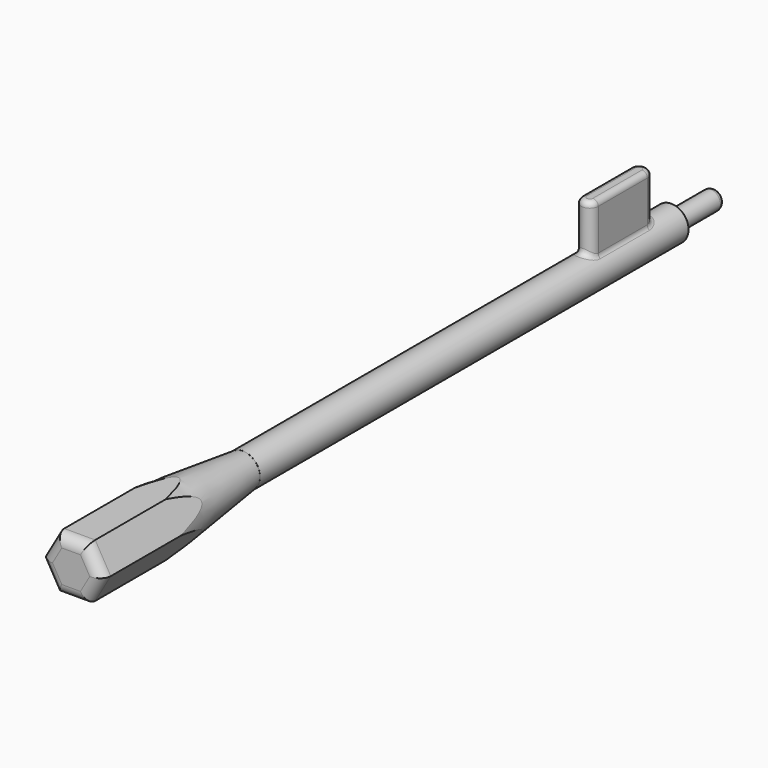
from build123d import *

# Parameters (mm, degrees)
PAD_DEPTH    = 40
SKETCH001_R  = 3.215442
PAD001_DEPTH = 100
SKETCH002_R  = 1.790301
PAD002_DEPTH = 10
FILLET_R     = 1
FILLET001_R  = 1
CHAMFER_SIZE = 0.2
FILLET002_R  = 2
PAD003_DEPTH = 10
FILLET003_R  = 1
FILLET004_R  = 1


with BuildPart() as part:
    # Sketch → Pad (new body)
    with BuildSketch(Plane.XZ):
        Polygon((2.886751, -5), (5.773503, 0), (2.886751, 5), (-2.886751, 5), (-5.773503, 0), (-2.886751, -5), align=None)
    extrude(amount=PAD_DEPTH)

    # Sketch001 (on Face7 of Pad) → Pad001 (join)
    with BuildSketch(Plane(origin=(0, 0, 0), x_dir=(1, 0, 0), z_dir=(0, 1, 0))):
        Circle(SKETCH001_R)
    extrude(amount=PAD001_DEPTH)

    # Sketch002 (on Face10 of Pad001) → Pad002 (join)
    with BuildSketch(Plane(origin=(0, 100, 0), x_dir=(1, 0, 0), z_dir=(0, 1, 0))):
        Circle(SKETCH002_R)
    extrude(amount=PAD002_DEPTH)

    # Fillet
    fillet_edges = [part.edges().sort_by_distance(p)[0] for p in [
        (-1.790301, 100, 0),
    ]]
    fillet(fillet_edges, radius=FILLET_R)

    # Fillet001
    fillet001_edges = [part.edges().sort_by_distance(p)[0] for p in [
        (-1.790301, 110, 0),
    ]]
    fillet(fillet001_edges, radius=FILLET001_R)

    # Chamfer
    chamfer_edges = [part.edges().sort_by_distance(p)[0] for p in [
        (-3.215442, 100, 0),
    ]]
    chamfer(chamfer_edges, length=CHAMFER_SIZE)

    # Sketch003 → Groove (revolve, cut)
    with BuildSketch(Plane.XY):
        Polygon((3.201163, 0), (6.726055, -29.548664), (6.726055, 0), align=None)
    revolve(axis=Axis((0, 0, 0), (0, 1, 0)), mode=Mode.SUBTRACT)

    # Fillet002
    fillet002_edges = [part.edges().sort_by_distance(p)[0] for p in [
        (4.330127, -40, -2.5),
        (4.330127, -40, 2.5),
        (0, -40, 5),
        (-4.330127, -40, 2.5),
        (-4.330127, -40, -2.5),
        (0, -40, -5),
    ]]
    fillet(fillet002_edges, radius=FILLET002_R)

    # Sketch004 → Pad003 (join)
    with BuildSketch(Plane.XY.offset(2)):
        with BuildLine():
            ThreePointArc((1.577738, 92.233203), (0, 93.810941), (-1.577738, 92.233203))
            Line((-1.577738, 92.233203), (-1.577738, 80.809975))
            ThreePointArc((-1.577738, 80.809975), (0, 79.232237), (1.577738, 80.809975))
            Line((1.577738, 80.809975), (1.577738, 92.233203))
        make_face()
    extrude(amount=PAD003_DEPTH)

    # Fillet003
    fillet003_edges = [part.edges().sort_by_distance(p)[0] for p in [
        (0, 93.810941, 12),
        (-1.577738, 86.521589, 12),
        (0, 79.232237, 12),
        (1.577738, 86.521589, 12),
    ]]
    fillet(fillet003_edges, radius=FILLET003_R)

    # Fillet004
    fillet004_edges = [part.edges().sort_by_distance(p)[0] for p in [
        (-1.577738, 86.521589, 2.801751),
        (0, 79.232237, 3.215442),
        (0, 93.810941, 3.215442),
        (1.577738, 86.521589, 2.801751),
    ]]
    fillet(fillet004_edges, radius=FILLET004_R)


solid = part.part
